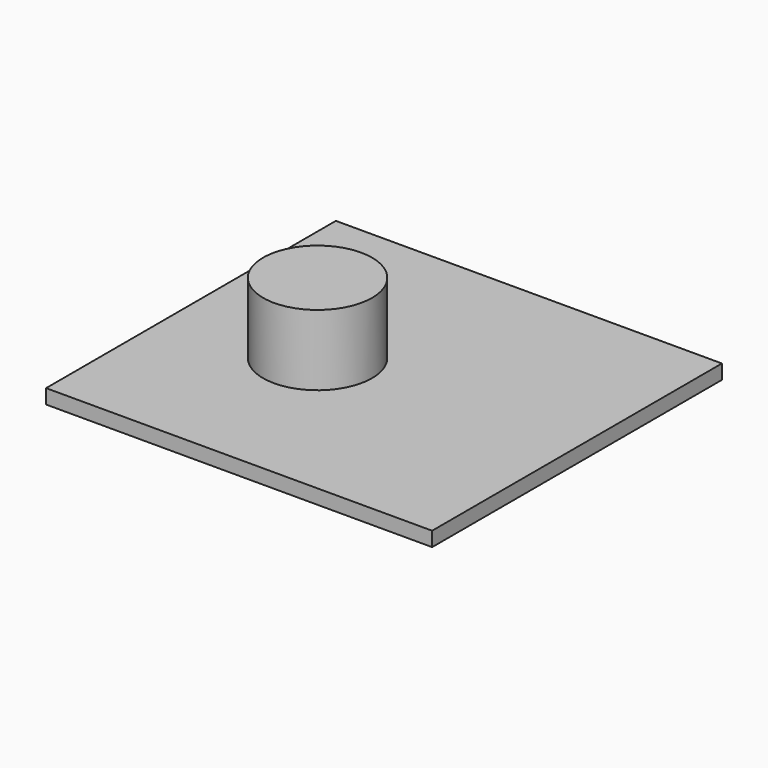
from build123d import *

# Parameters (mm, degrees)
F0_R     = 5.95
F1_DEPTH = 9.3
F0_W     = 42.15
F0_H     = 39.55
F2_DEPTH = 1.58


with BuildPart() as f1:
    # F0 (on Top) → F1 (new body)
    with BuildSketch(Plane.XY):
        with Locations((-27.540984, 18.790985)):
            Circle(F0_R)
    extrude(amount=F1_DEPTH)


with BuildPart() as f2:
    # F0 (on Top) → F2 (new body)
    with BuildSketch(Plane.XY):
        with Locations((-21.075, 19.775)):
            Rectangle(F0_W, F0_H)
        with Locations((-27.540984, 18.790985)):
            Circle(F0_R, mode=Mode.SUBTRACT)
    extrude(amount=F2_DEPTH)


solid = Compound([f1.part, f2.part])
